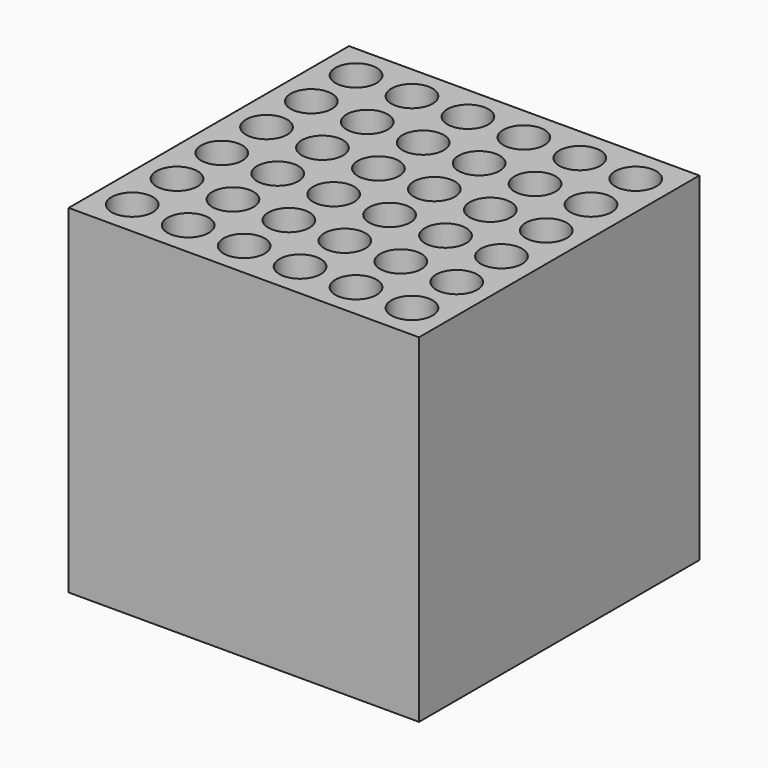
from build123d import *

# Parameters (mm, degrees)
F0_W     = 119
F0_H     = 119
F1_DEPTH = 115
F2_D     = 14
F2_DEPTH = 110
F2_TIP   = 4.2060243332


with BuildPart() as f1:
    # F0 (on Top) → F1 (new body)
    with BuildSketch(Plane.XY):
        with Locations((-37.8049128657, -59.5)):
            Rectangle(F0_W, F0_H)
    extrude(amount=-F1_DEPTH)

    # F2
    with Locations(Plane.XY):
        with Locations((-85.3049128657, -12), (-66.3049128657, -12), (-47.3049128657, -12), (-28.3049128657, -12), (-9.3049128657, -12), (9.6950871343, -12), (9.6950871343, -31), (-9.3049128657, -31), (-28.3049128657, -31), (-47.3049128657, -31), (-66.3049128657, -31), (-85.3049128657, -31), (-85.3049128657, -50), (-66.3049128657, -50), (-47.3049128657, -50), (-28.3049128657, -50), (-9.3049128657, -50), (9.6950871343, -50), (9.6950871343, -69), (-9.3049128657, -69), (-28.3049128657, -69), (-47.3049128657, -69), (-66.3049128657, -69), (-85.3049128657, -69), (-85.3049128657, -88), (-66.3049128657, -88), (-47.3049128657, -88), (-28.3049128657, -88), (-9.3049128657, -88), (9.6950871343, -88), (9.6950871343, -107), (-9.3049128657, -107), (-28.3049128657, -107), (-47.3049128657, -107), (-66.3049128657, -107), (-85.3049128657, -107)):
            Hole(F2_D / 2, depth=F2_DEPTH)
            with Locations((0, 0, -(F2_DEPTH + F2_TIP / 2))):  # 118° drill point
                Cone(0, F2_D / 2, F2_TIP, mode=Mode.SUBTRACT)


solid = f1.part
